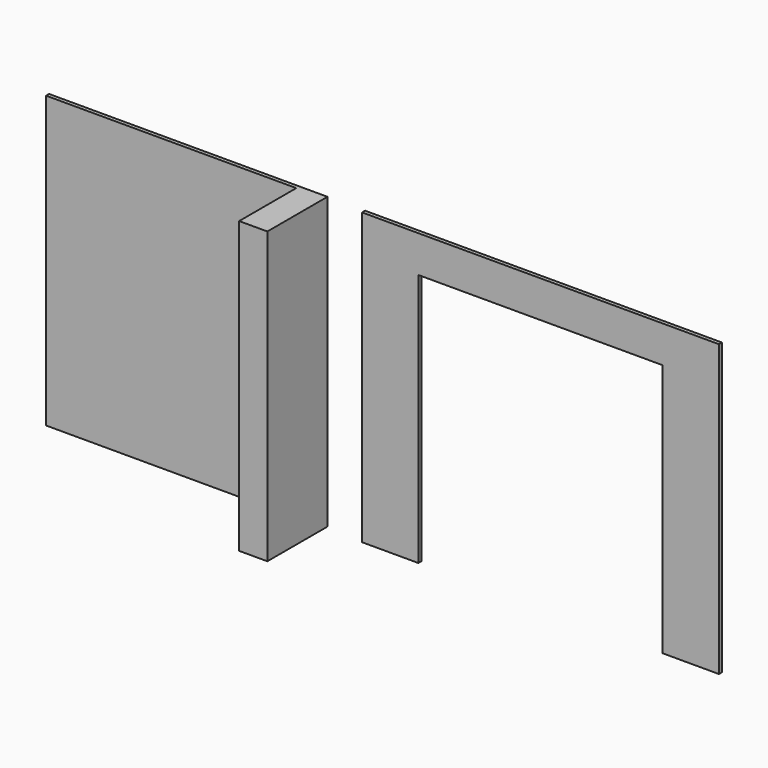
from build123d import *

# Parameters (mm, degrees)
F0_W     = 2029.968
F0_H     = 2355.85
F0_W_2   = 228.6
F1_DEPTH = 30.48
F2_DEPTH = 609.6


with BuildPart() as f1:
    # F0 (on Front) → F1 (new body)
    with BuildSketch(Plane.XZ):
        with Locations((-1548.384, 1177.925)):
            Rectangle(F0_W, F0_H)
        with Locations((-419.1, 1177.925)):
            Rectangle(F0_W_2, F0_H)
        Polygon((0, 2355.85), (0, 0), (457.2, 0), (457.2, 2057.4), (2438.4, 2057.4), (2438.4, 0), (2895.6, 0), (2895.6, 2355.85), align=None)
    extrude(amount=F1_DEPTH)

    # F0 (on Front) → F2 (join)
    with BuildSketch(Plane.XZ):
        with Locations((-419.1, 1177.925)):
            Rectangle(F0_W_2, F0_H)
    extrude(amount=F2_DEPTH)


solid = f1.part
